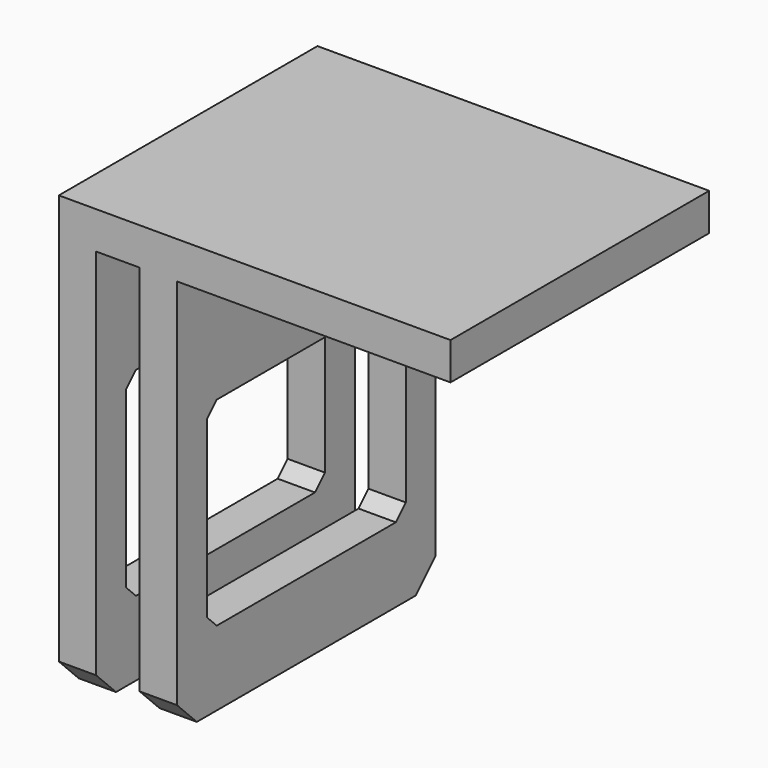
from build123d import *

# Parameters (mm, degrees)
BOX075_W              = 3
BOX075_H              = 20
BOX075_DEPTH          = 16
BOX072_W              = 3
BOX072_H              = 26
BOX072_DEPTH          = 35
BOX076_W              = 3
BOX076_H              = 20
BOX076_DEPTH          = 16
BOX073_W              = 3
BOX073_H              = 26
BOX073_DEPTH          = 35
BOX074_W              = 30
BOX074_H              = 26
BOX074_DEPTH          = 3
CHAMFER006057009_SIZE = 2
CHAMFER006057010_SIZE = 1


with BuildPart() as cube075:
    # Box075 → Box075 (new body)
    with BuildSketch(Plane(origin=(-21.5, -38, 1), x_dir=(1, 0, 0), z_dir=(0, 0, 1))):
        with Locations((1.5, 10)):
            Rectangle(BOX075_W, BOX075_H)
    extrude(amount=BOX075_DEPTH)


with BuildPart() as cut019003010004002005007005:
    # Box072 → Box072 (new body)
    with BuildSketch(Plane(origin=(-21.5, -41, -5), x_dir=(1, 0, 0), z_dir=(0, 0, 1))):
        with Locations((1.5, 13)):
            Rectangle(BOX072_W, BOX072_H)
    extrude(amount=BOX072_DEPTH)

    # Cut019003010004002005007005: cut Cube075
    add(cube075.part, mode=Mode.SUBTRACT)


with BuildPart() as cube076:
    # Box076 → Box076 (new body)
    with BuildSketch(Plane(origin=(-15, -38, 1), x_dir=(1, 0, 0), z_dir=(0, 0, 1))):
        with Locations((1.5, 10)):
            Rectangle(BOX076_W, BOX076_H)
    extrude(amount=BOX076_DEPTH)


with BuildPart() as cut019003010004002005007004:
    # Box073 → Box073 (new body)
    with BuildSketch(Plane(origin=(-15, -41, -5), x_dir=(1, 0, 0), z_dir=(0, 0, 1))):
        with Locations((1.5, 13)):
            Rectangle(BOX073_W, BOX073_H)
    extrude(amount=BOX073_DEPTH)

    # Cut019003010004002005007004: cut Cube076
    add(cube076.part, mode=Mode.SUBTRACT)


with BuildPart() as chamfer006057010:
    # Box074 → Box074 (new body)
    with BuildSketch(Plane(origin=(-20, -41, 27), x_dir=(1, 0, 0), z_dir=(0, 0, 1))):
        with Locations((15, 13)):
            Rectangle(BOX074_W, BOX074_H)
    extrude(amount=BOX074_DEPTH)

    # Fusion020006007003002009018004004020010005023: union Cut019003010004002005007005, Cut019003010004002005007004
    add(cut019003010004002005007005.part)
    add(cut019003010004002005007004.part)

    # Chamfer006057009
    chamfer006057009_edges = [chamfer006057010.edges().sort_by_distance(p)[0] for p in [
        (-20, -41, -5),
        (-20, -15, -5),
        (-13.5, -41, -5),
        (-13.5, -15, -5),
    ]]
    chamfer(chamfer006057009_edges, length=CHAMFER006057009_SIZE)

    # Chamfer006057010
    chamfer006057010_edges = [chamfer006057010.edges().sort_by_distance(p)[0] for p in [
        (-20, -38, 1),
        (-20, -38, 17),
        (-20, -18, 17),
        (-20, -18, 1),
        (-13.5, -38, 1),
        (-13.5, -38, 17),
        (-13.5, -18, 17),
        (-13.5, -18, 1),
    ]]
    chamfer(chamfer006057010_edges, length=CHAMFER006057010_SIZE)


solid = chamfer006057010.part
